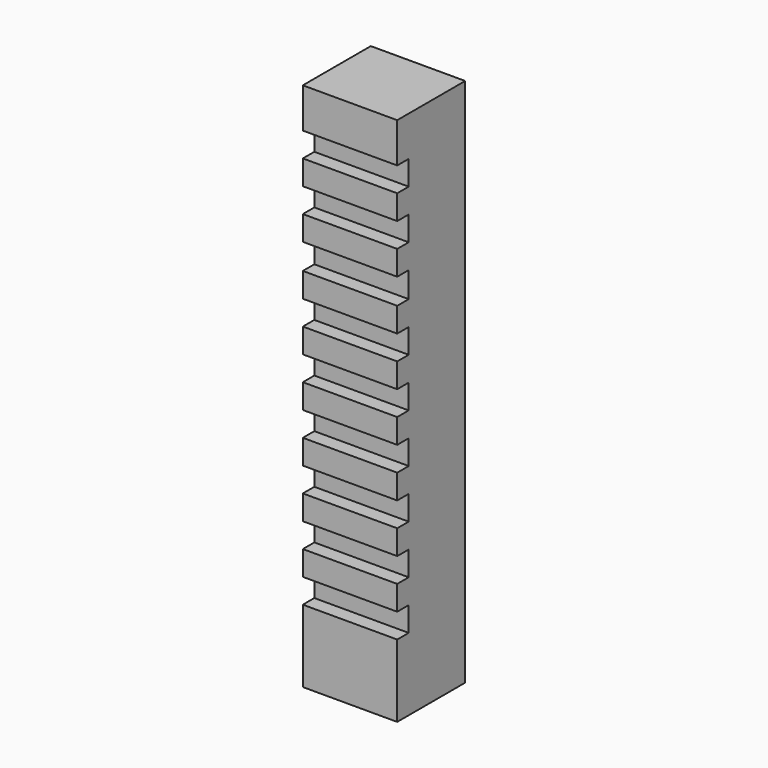
from build123d import *

# Parameters (mm, degrees)
F1_DEPTH = 12.7


with BuildPart() as f1:
    # F0 (on Right) → F1 (new body, symmetric)
    with BuildSketch(Plane.YZ):
        Polygon((40.453236, 67.376501), (17.593236, 67.376501), (17.593236, 56.645788), (21.461469, 56.645788), (21.461469, 50.057318), (17.593236, 50.057318), (17.593236, 43.468846), (21.461469, 43.468846), (21.461469, 36.880376), (17.593236, 36.880376), (17.593236, 30.291905), (21.461469, 30.291905), (21.461469, 23.403957), (17.593236, 23.403957), (17.593236, 16.815488), (21.461469, 16.815488), (21.461469, 10.227017), (17.593236, 10.227017), (17.593236, 3.638547), (21.461469, 3.638547), (21.461469, -2.949924), (17.593236, -2.949924), (17.593236, -9.538396), (21.461469, -9.538396), (21.461469, -16.126866), (17.593236, -16.126866), (17.593236, -22.715338), (21.461469, -22.715338), (21.461469, -29.303809), (17.593236, -29.303809), (17.593236, -35.89228), (21.461469, -35.89228), (21.461469, -42.480753), (17.593236, -42.480753), (17.593236, -49.069222), (21.461469, -49.069222), (21.461469, -55.657691), (17.593236, -55.657691), (17.593236, -75.174047), (40.453236, -75.174047), align=None)
    extrude(amount=F1_DEPTH, both=True)


solid = f1.part
